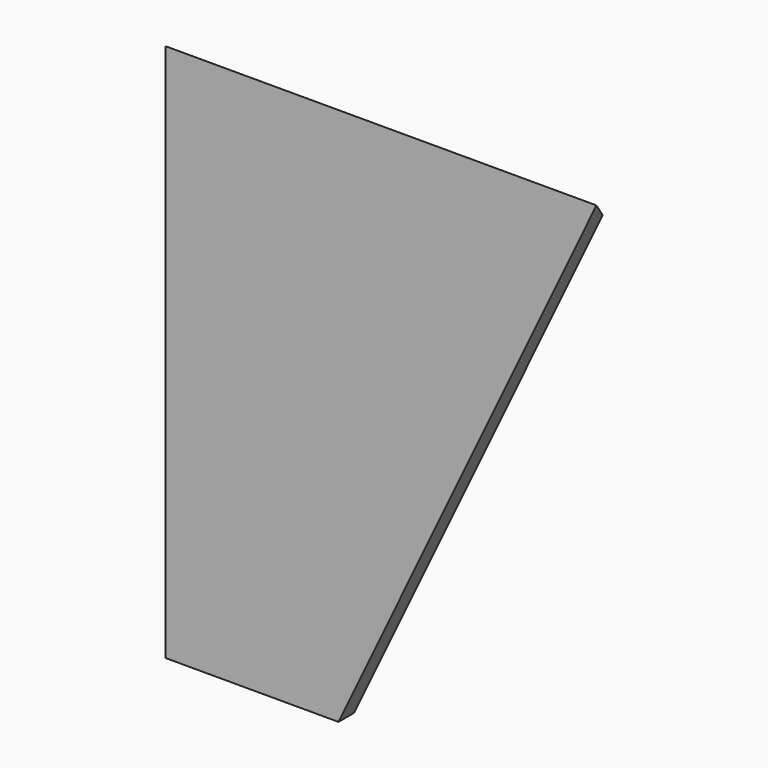
from build123d import *

# Parameters (mm, degrees)
F1_DEPTH = 25.4
F3_DEPTH = 559.128863


with BuildPart() as f1:
    # F0 (on Front) → F1 (new body)
    with BuildSketch(Plane.XZ):
        Polygon((559.127863, 0), (0, 0), (0, -698.5), (224.634972, -698.5), align=None)
    extrude(amount=F1_DEPTH)

    # F2 (on face) → F3 (cut, through all)
    with BuildSketch(Plane(origin=(0, 0, 0), x_dir=(0, -1, 0), z_dir=(-1, 0, 0))):
        Polygon((0, -25.4), (25.4, 0), (0, 0), align=None)
    extrude(amount=-F3_DEPTH, mode=Mode.SUBTRACT)


solid = f1.part
